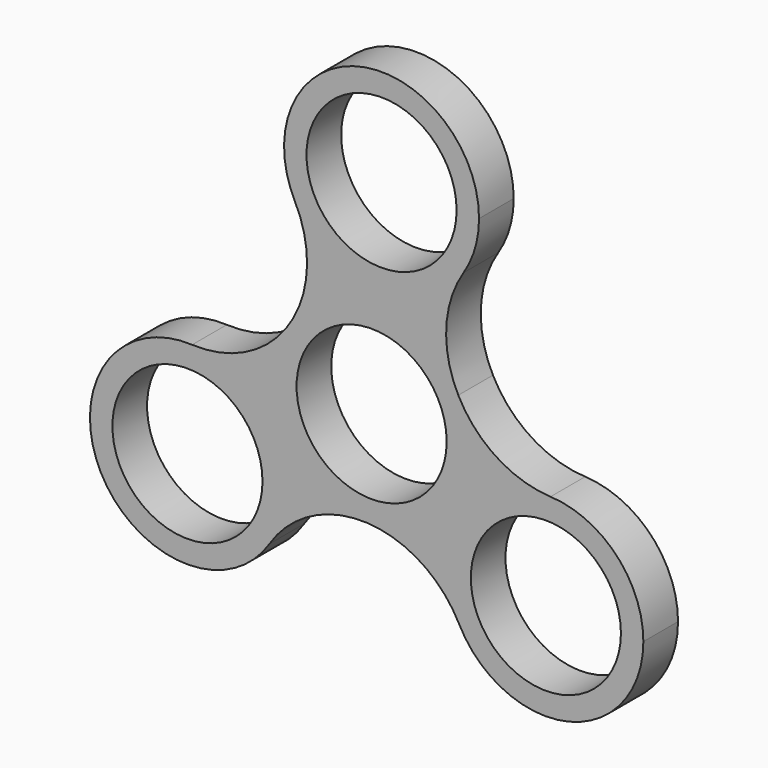
from build123d import *

# Parameters (mm, degrees)
F0_R     = 10.9982
F1_DEPTH = 6.35


with BuildPart() as f1:
    # F0 (on Front) → F1 (new body)
    with BuildSketch(Plane.XZ):
        with BuildLine():
            ThreePointArc((12.7012721412, 6.542961275), (13.8852814514, 3.3662464655), (14.2875, 0))
            ThreePointArc((14.2875, 0), (9.8578957303, -10.3418831951), (-0.6842652522, -14.2711049788))
            ThreePointArc((-0.6842652522, -14.2711049788), (7.240663618, -16.8071465228), (12.8358325851, -22.965887347))
            ThreePointArc((12.8358325851, -22.965887347), (13.5200979128, -8.6947823719), (26.2213700252, -2.151821041))
            ThreePointArc((26.2213700252, -2.151821041), (18.2964411378, 0.3842204693), (12.7012721412, 6.542961275))
        make_face()
        with BuildLine():
            ThreePointArc((-14.9742166985, -21.6324620433), (-8.8154758203, -16.0372930271), (-0.6842652522, -14.2711049788))
            ThreePointArc((-0.6842652522, -14.2711049788), (-12.7012721174, -6.5429613211), (-12.0170067319, 7.7281437263))
            ThreePointArc((-12.0170067319, 7.7281437263), (-18.1757475859, 2.1329746676), (-26.3069581555, 0.366786576))
            ThreePointArc((-26.3069581555, 0.366786576), (-16.649340262, -4.0464226961), (-12.7037234832, -13.9043183991))
            ThreePointArc((-12.7037234832, -13.9043183991), (-13.283093766, -17.9317041401), (-14.9742166985, -21.6324620433))
        make_face()
        with BuildLine():
            ThreePointArc((-12.0170067319, 7.7281437263), (0.6842654078, 14.2711049713), (12.7012721412, 6.542961275))
            ThreePointArc((12.7012721412, 6.542961275), (10.9350840416, 14.6741718257), (13.4711255704, 22.5991007709))
            ThreePointArc((13.4711255704, 22.5991007709), (0.769853458, 16.0561394401), (-11.2471533267, 23.7842830843))
            ThreePointArc((-11.2471533267, 23.7842830843), (-9.4809652551, 15.6530726068), (-12.0170067319, 7.7281437263))
        make_face()
        with BuildLine():
            ThreePointArc((39.8246046975, -16.4229260161), (35.8789879186, -6.5650303131), (26.2213700252, -2.151821041))
            ThreePointArc((26.2213700252, -2.151821041), (13.5200979128, -8.6947823719), (12.8358325851, -22.965887347))
            ThreePointArc((12.8358325851, -22.965887347), (28.9033511936, -30.3082074601), (39.8246046975, -16.4229260161))
        make_face()
        with Locations((25.5371046975, -16.4229260161)):
            Circle(F0_R, mode=Mode.SUBTRACT)
        with BuildLine():
            ThreePointArc((-11.2471533267, 23.7842830843), (0.769853458, 16.0561394401), (13.4711255704, 22.5991007709))
            ThreePointArc((13.4711255704, 22.5991007709), (15.1622485029, 26.2998586742), (15.7416187857, 30.3272444152))
            ThreePointArc((15.7416187857, 30.3272444152), (-1.9121277104, 44.2125258591), (-11.2471533267, 23.7842830843))
        make_face()
        with Locations((1.4541187857, 30.3272444152)):
            Circle(F0_R, mode=Mode.SUBTRACT)
        with BuildLine():
            ThreePointArc((-0.6842652522, -14.2711049788), (9.8578957303, -10.3418831951), (14.2875, 0))
            ThreePointArc((14.2875, 0), (13.8852814514, 3.3662464655), (12.7012721412, 6.542961275))
            ThreePointArc((12.7012721412, 6.542961275), (0.6842654078, 14.2711049713), (-12.0170067319, 7.7281437263))
            ThreePointArc((-12.0170067319, 7.7281437263), (-12.7012721174, -6.5429613211), (-0.6842652522, -14.2711049788))
        make_face()
        Circle(F0_R, mode=Mode.SUBTRACT)
        with BuildLine():
            ThreePointArc((-26.3069581555, 0.366786576), (-39.6924955955, -20.44727973), (-14.9742166985, -21.6324620433))
            ThreePointArc((-14.9742166985, -21.6324620433), (-13.283093766, -17.9317041401), (-12.7037234832, -13.9043183991))
            ThreePointArc((-12.7037234832, -13.9043183991), (-16.649340262, -4.0464226961), (-26.3069581555, 0.366786576))
        make_face()
        with Locations((-26.9912234832, -13.9043183991)):
            Circle(F0_R, mode=Mode.SUBTRACT)
    extrude(amount=F1_DEPTH)


solid = f1.part
